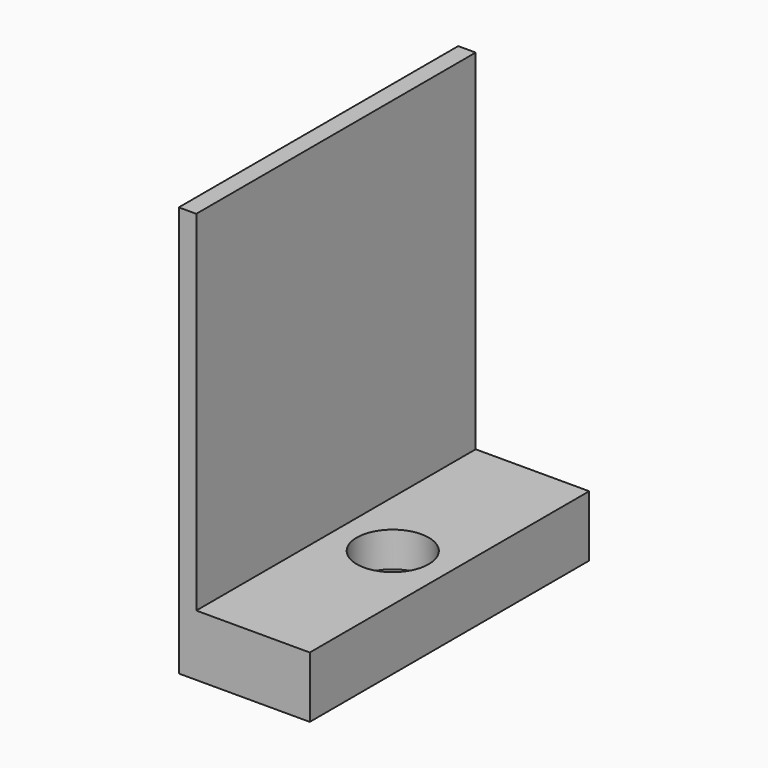
from build123d import *

# Parameters (mm, degrees)
F0_W           = 15
F0_H           = 40
F1_DEPTH       = 7
F2_W           = 2
F2_H           = 40
F3_DEPTH       = 40
F5_D           = 4.4
F5_CBORE_D     = 8.25
F5_CBORE_DEPTH = 4


with BuildPart() as f1:
    # F0 (on Top) → F1 (new body)
    with BuildSketch(Plane.XY):
        Rectangle(F0_W, F0_H)
    extrude(amount=F1_DEPTH)

    # F2 (on face) → F3 (join)
    with BuildSketch(Plane.XY.offset(7)):
        with Locations((-6.5, 0)):
            Rectangle(F2_W, F2_H)
    extrude(amount=F3_DEPTH)

    # F5 (through all)
    with Locations(Plane.XY.offset(7)):
        with Locations((1, 0)):
            CounterBoreHole(F5_D / 2, F5_CBORE_D / 2, F5_CBORE_DEPTH)


solid = f1.part
